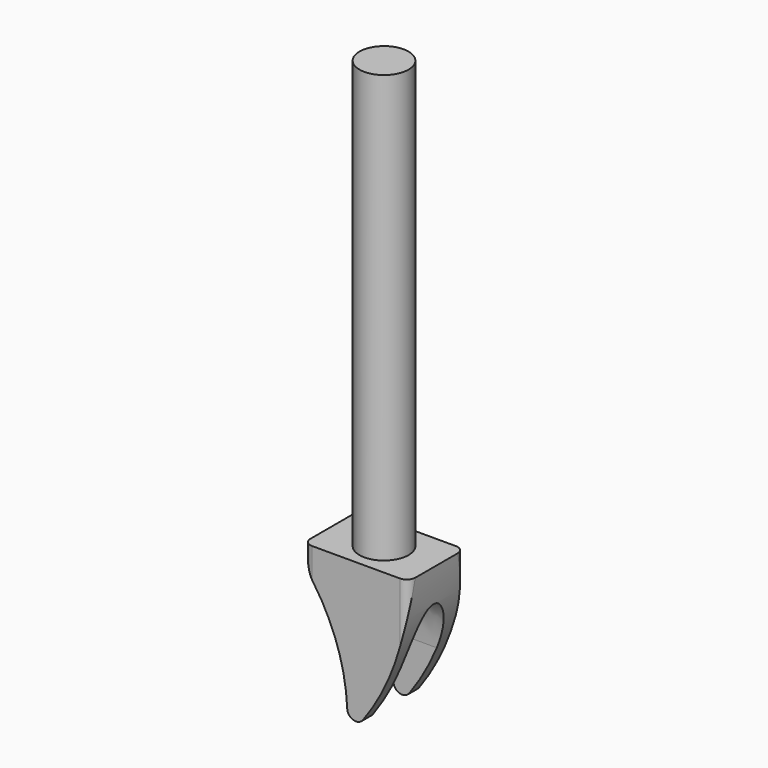
from build123d import *

# Parameters (mm, degrees)
F0_R     = 14
F1_DEPTH = 244
F2_W     = 60
F2_H     = 40
F3_DEPTH = 80
F4_R     = 5
F6_DEPTH = 40
F8_DEPTH = 35


with BuildPart() as f1:
    # F0 (on Top) → F1 (new body)
    with BuildSketch(Plane.XY):
        Circle(F0_R)
    extrude(amount=F1_DEPTH)

    # F2 (on Top) → F3 (join)
    with BuildSketch(Plane.XY):
        Rectangle(F2_W, F2_H)
    extrude(amount=-F3_DEPTH)

    # F4
    f4_edges = [f1.edges().sort_by_distance(p)[0] for p in [
        (30, -20, -40),
        (30, 20, -40),
        (-30, -20, -40),
        (-30, 20, -40),
    ]]
    fillet(f4_edges, radius=F4_R)

    # F5 (on Front) → F6 (cut, symmetric)
    with BuildSketch(Plane.XZ):
        with BuildLine():
            Line((-30, 0), (-30, -90))
            Line((-30, -90), (30, -90))
            Line((30, -90), (30, 0))
            ThreePointArc((30, 0), (23.0927925952, -40.9972362717), (4.0380677708, -77.9485604417))
            ThreePointArc((4.0380677708, -77.9485604417), (2.2646410082, -79.4577349746), (0, -80))
            ThreePointArc((0, -80), (-3.4564291769, -78.6129070491), (-4.9951029351, -75.2212389381))
            ThreePointArc((-4.9951029351, -75.2212389381), (-10.5871286649, -45.3841026089), (-24.2616371934, -18.2818283023))
            ThreePointArc((-24.2616371934, -18.2818283023), (-28.5317146762, -9.5806322048), (-30, 0))
        make_face()
    extrude(amount=F6_DEPTH, both=True, mode=Mode.SUBTRACT)

    # F7 (on Right) → F8 (cut, symmetric)
    with BuildSketch(Plane.YZ):
        with BuildLine():
            Line((13, -80), (13, -50))
            add(Edge.make_bspline(
                [(13, -50), (13, -20), (0, -20), (-13, -20), (-13, -50)],
                knots=[1.5707963268, 1.5707963268, 1.5707963268, 3.1415926536, 3.1415926536, 4.7123889804, 4.7123889804, 4.7123889804], degree=2, weights=[1, 0.7071067812, 1, 0.7071067812, 1]))
            Line((-13, -50), (-13, -80))
            Line((-13, -80), (13, -80))
        make_face()
    extrude(amount=F8_DEPTH, both=True, mode=Mode.SUBTRACT)


solid = f1.part
